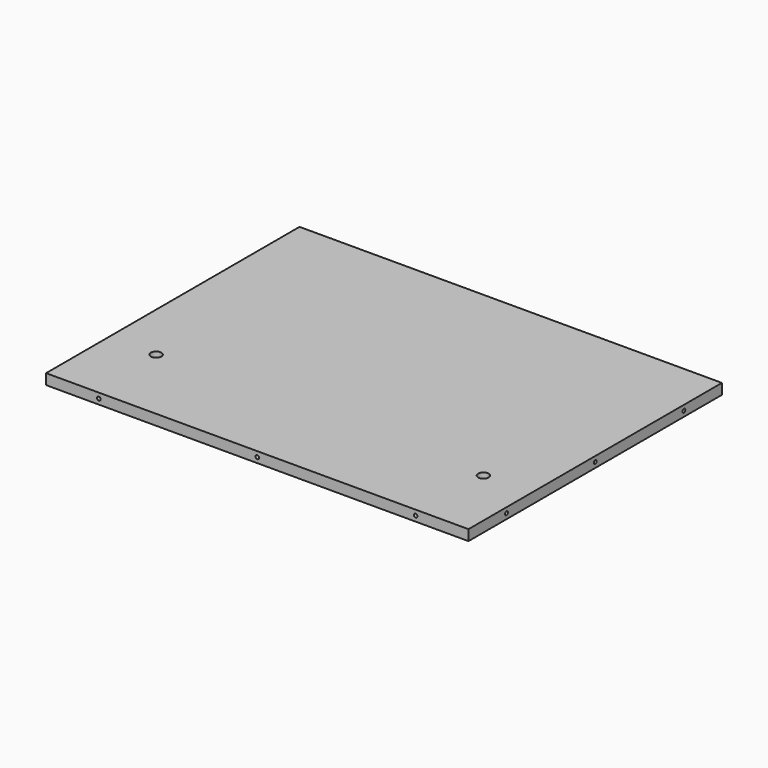
from build123d import *

# Parameters (mm, degrees)
CYLINDER050_R           = 1.7
CYLINDER050_DEPTH       = 20
CYLINDER050_PITCH_ANGLE = 90
CYLINDER049_R           = 1.7
CYLINDER049_DEPTH       = 20
CYLINDER049_PITCH_ANGLE = 90
CYLINDER051_R           = 1.7
CYLINDER051_DEPTH       = 20
CYLINDER051_PITCH_ANGLE = 90
CYLINDER047_R           = 1.7
CYLINDER047_DEPTH       = 20
CYLINDER047_PITCH_ANGLE = 90
CYLINDER046_R           = 1.7
CYLINDER046_DEPTH       = 20
CYLINDER046_PITCH_ANGLE = 90
CYLINDER048_R           = 1.7
CYLINDER048_DEPTH       = 20
CYLINDER048_PITCH_ANGLE = 90
SKETCH023_R             = 1.7
PAD021_DEPTH            = 20
SKETCH024_R             = 1.7
PAD022_DEPTH            = 20
CYLINDER001_R           = 5
CYLINDER001_DEPTH       = 50
CYLINDER_R              = 5
CYLINDER_DEPTH          = 50
SKETCH002_W             = 400
SKETCH002_H             = 300
PAD002_DEPTH            = 10


with BuildPart() as cylinder050:
    # Cylinder050 → Cylinder050 (new body)
    with BuildSketch(Plane.XY):
        Circle(CYLINDER050_R)
    extrude(amount=CYLINDER050_DEPTH)


with BuildPart() as cylinder050_1:
    # Cylinder050 pitch: moved
    add(cylinder050.part.rotate(Axis((0, 0, 0), (0, 1, 0)), CYLINDER050_PITCH_ANGLE))


with BuildPart() as cylinder050_2:
    # Cylinder050 placement: moved
    add(cylinder050_1.part.moved(Location((-220, 120, -5))))


with BuildPart() as cylinder049:
    # Cylinder049 → Cylinder049 (new body)
    with BuildSketch(Plane.XY):
        Circle(CYLINDER049_R)
    extrude(amount=CYLINDER049_DEPTH)


with BuildPart() as cylinder049_1:
    # Cylinder049 pitch: moved
    add(cylinder049.part.rotate(Axis((0, 0, 0), (0, 1, 0)), CYLINDER049_PITCH_ANGLE))


with BuildPart() as cylinder049_2:
    # Cylinder049 placement: moved
    add(cylinder049_1.part.moved(Location((-220, -90, -5))))


with BuildPart() as fusion016:
    # Cylinder051 → Cylinder051 (new body)
    with BuildSketch(Plane.XY):
        Circle(CYLINDER051_R)
    extrude(amount=CYLINDER051_DEPTH)


with BuildPart() as fusion016_1:
    # Cylinder051 pitch: moved
    add(fusion016.part.rotate(Axis((0, 0, 0), (0, 1, 0)), CYLINDER051_PITCH_ANGLE))


with BuildPart() as fusion016_2:
    # Cylinder051 placement: moved
    add(fusion016_1.part.moved(Location((-220, 15, -5))))

    # Fusion016: union Cylinder050, Cylinder049
    add(cylinder050_2.part)
    add(cylinder049_2.part)


with BuildPart() as fusion016_3:
    # Fusion016 placement: moved
    add(fusion016_2.part.moved(Location((415, -5, 0))))


with BuildPart() as cylinder047:
    # Cylinder047 → Cylinder047 (new body)
    with BuildSketch(Plane.XY):
        Circle(CYLINDER047_R)
    extrude(amount=CYLINDER047_DEPTH)


with BuildPart() as cylinder047_1:
    # Cylinder047 pitch: moved
    add(cylinder047.part.rotate(Axis((0, 0, 0), (0, 1, 0)), CYLINDER047_PITCH_ANGLE))


with BuildPart() as cylinder047_2:
    # Cylinder047 placement: moved
    add(cylinder047_1.part.moved(Location((-220, 120, -5))))


with BuildPart() as cylinder046:
    # Cylinder046 → Cylinder046 (new body)
    with BuildSketch(Plane.XY):
        Circle(CYLINDER046_R)
    extrude(amount=CYLINDER046_DEPTH)


with BuildPart() as cylinder046_1:
    # Cylinder046 pitch: moved
    add(cylinder046.part.rotate(Axis((0, 0, 0), (0, 1, 0)), CYLINDER046_PITCH_ANGLE))


with BuildPart() as cylinder046_2:
    # Cylinder046 placement: moved
    add(cylinder046_1.part.moved(Location((-220, -90, -5))))


with BuildPart() as fusion015:
    # Cylinder048 → Cylinder048 (new body)
    with BuildSketch(Plane.XY):
        Circle(CYLINDER048_R)
    extrude(amount=CYLINDER048_DEPTH)


with BuildPart() as fusion015_1:
    # Cylinder048 pitch: moved
    add(fusion015.part.rotate(Axis((0, 0, 0), (0, 1, 0)), CYLINDER048_PITCH_ANGLE))


with BuildPart() as fusion015_2:
    # Cylinder048 placement: moved
    add(fusion015_1.part.moved(Location((-220, 15, -5))))

    # Fusion015: union Cylinder047, Cylinder046
    add(cylinder047_2.part)
    add(cylinder046_2.part)


with BuildPart() as fusion015_3:
    # Fusion015 placement: moved
    add(fusion015_2.part.moved(Location((5, -5, 0))))


with BuildPart() as pad021:
    # Sketch023 → Pad021 (new body)
    with BuildSketch(Plane.XZ.offset(135)):
        with Locations((-150, -5)):
            Circle(SKETCH023_R)
        with Locations((0, -5)):
            Circle(SKETCH023_R)
        with Locations((150, -5)):
            Circle(SKETCH023_R)
    extrude(amount=PAD021_DEPTH)


with BuildPart() as fusion017:
    # Sketch024 → Pad022 (new body)
    with BuildSketch(Plane.XZ.offset(-175)):
        with Locations((-150, -5)):
            Circle(SKETCH024_R)
        with Locations((0, -5)):
            Circle(SKETCH024_R)
        with Locations((150, -5)):
            Circle(SKETCH024_R)
    extrude(amount=PAD022_DEPTH)

    # Fusion017: union Fusion016, Fusion015, Pad021
    add(fusion016_3.part)
    add(fusion015_3.part)
    add(pad021.part)


with BuildPart() as cylinder001:
    # Cylinder001 → Cylinder001 (new body)
    with BuildSketch(Plane(origin=(-155, -66, -30), x_dir=(1, 0, 0), z_dir=(0, 0, 1))):
        Circle(CYLINDER001_R)
    extrude(amount=CYLINDER001_DEPTH)


with BuildPart() as fusion018:
    # Cylinder → Cylinder (new body)
    with BuildSketch(Plane(origin=(155, -66, -25), x_dir=(1, 0, 0), z_dir=(0, 0, 1))):
        Circle(CYLINDER_R)
    extrude(amount=CYLINDER_DEPTH)

    # Fusion018: union Cylinder001
    add(cylinder001.part)


with BuildPart() as cut018:
    # Sketch002 → Pad002 (new body)
    with BuildSketch(Plane(origin=(0, 0, -10), x_dir=(1, 0, 0), z_dir=(0, 0, -1))):
        with Locations((0, -10)):
            Rectangle(SKETCH002_W, SKETCH002_H)
    extrude(amount=-PAD002_DEPTH)

    # Cut: cut Fusion018
    add(fusion018.part, mode=Mode.SUBTRACT)

    # Cut018: cut Fusion017
    add(fusion017.part, mode=Mode.SUBTRACT)


solid = cut018.part
